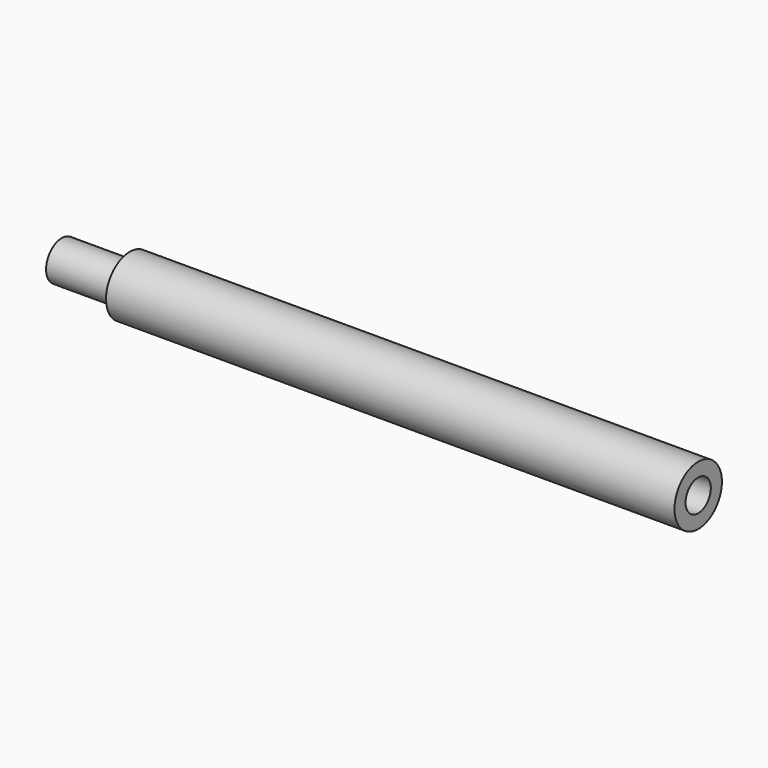
from build123d import *

# Parameters (mm, degrees)
F0_R     = 4.8
F1_DEPTH = 46
F3_D     = 5.1054
F3_DEPTH = 15.81
F3_TIP   = 1.5338169022
F4_R     = 3.175
F5_DEPTH = 11


with BuildPart() as f1:
    # F0 (on Right) → F1 (new body, symmetric)
    with BuildSketch(Plane.YZ):
        Circle(F0_R)
    extrude(amount=F1_DEPTH, both=True)

    # F3
    with Locations(Plane.YZ.offset(46)):
        with Locations((0, 0)):
            Hole(F3_D / 2, depth=F3_DEPTH)
            with Locations((0, 0, -(F3_DEPTH + F3_TIP / 2))):  # 118° drill point
                Cone(0, F3_D / 2, F3_TIP, mode=Mode.SUBTRACT)

    # F4 (on face) → F5 (join)
    with BuildSketch(Plane(origin=(-46, 0, 0), x_dir=(0, -1, 0), z_dir=(-1, 0, 0))):
        Circle(F4_R)
    extrude(amount=F5_DEPTH)


solid = f1.part
